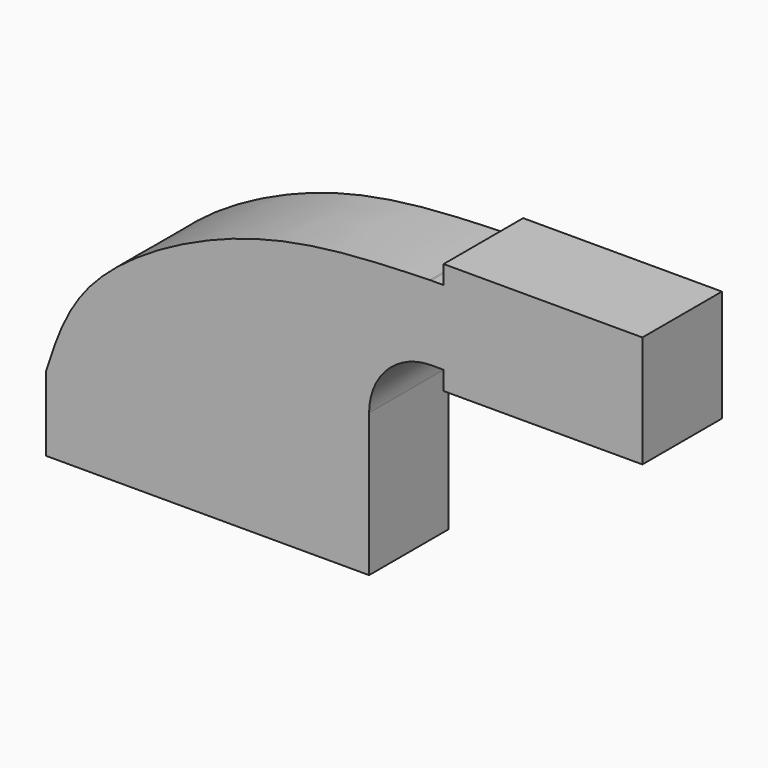
from build123d import *

# Parameters (mm, degrees)
F0_W     = 3.175
F0_H     = 19.05
F0_W_2   = 25.4
F0_H_2   = 4.7752
F0_H_3   = 4.7498
F1_DEPTH = 25.4


with BuildPart() as f1:
    # F0 (on Front) → F1 (new body)
    with BuildSketch(Plane.XZ):
        Polygon((0, -19.05), (0, 0), (-18.2172134519, 0), (-82.55, 0), (-82.55, -19.05), align=None)
        with BuildLine():
            Line((-18.2172134519, 0), (0, 0))
            Line((0, 0), (0, 17.4752))
            ThreePointArc((0, 17.4752), (4.6496798487, 28.7005201513), (15.875, 33.3502))
            Line((15.875, 33.3502), (15.875, 52.4002))
            add(Edge.make_bspline(
                [(15.4720424644, 52.3881474219), (15.6063618156, 52.392166871), (15.7406809078, 52.3961834355), (15.875, 52.4002)],
                knots=[0.9968021591, 0.9968021591, 0.9968021591, 0.9968021591, 1, 1, 1, 1], degree=3))
            ThreePointArc((15.4720424644, 52.3881474219), (-8.4215773689, 41.7335998951), (-18.2172134519, 17.4752))
            Line((-18.2172134519, 17.4752), (-18.2172134519, 0))
        make_face()
        with BuildLine():
            Line((-82.55, 0), (-18.2172134519, 0))
            Line((-18.2172134519, 0), (-18.2172134519, 17.4752))
            ThreePointArc((-18.2172134519, 17.4752), (-8.4215773689, 41.7335998951), (15.4720424644, 52.3881474219))
            add(Edge.make_bspline(
                [(-82.55, 0), (-80.0285718934, 7.8860036687), (-74.1073552514, 26.4051659001), (-30.1478543477, 50.9494481193), (0.3415976561, 51.9353753366), (15.4720424644, 52.3881474219)],
                knots=[0, 0, 0, 0, 0.2710746401, 0.6365803831, 0.9968021591, 0.9968021591, 0.9968021591, 0.9968021591], degree=3))
        make_face()
        with Locations((17.4625, 42.8752)):
            Rectangle(F0_W, F0_H)
        with BuildLine():
            ThreePointArc((15.875, 52.4002), (15.6735038468, 52.3947549616), (15.4720424644, 52.3881474219))
            add(Edge.make_bspline(
                [(15.4720424644, 52.3881474219), (15.6063618156, 52.392166871), (15.7406809078, 52.3961834355), (15.875, 52.4002)],
                knots=[0.9968021591, 0.9968021591, 0.9968021591, 0.9968021591, 1, 1, 1, 1], degree=3))
        make_face()
        with Locations((31.75, 30.9626)):
            Rectangle(F0_W_2, F0_H_2)
        with Locations((31.75, 42.8752)):
            Rectangle(F0_W_2, F0_H)
        with Locations((31.75, 54.7751)):
            Rectangle(F0_W_2, F0_H_3)
        Polygon((44.45, 52.4002), (44.45, 33.3502), (44.45, 28.575), (69.85, 28.575), (69.85, 57.15), (44.45, 57.15), align=None)
    extrude(amount=F1_DEPTH)


solid = f1.part
